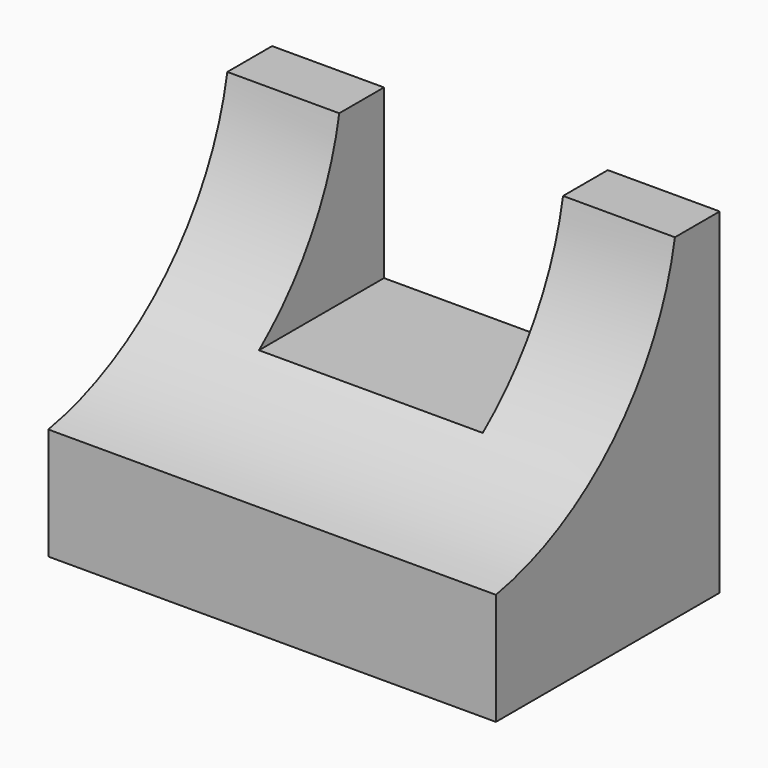
from build123d import *

# Parameters (mm, degrees)
F0_W     = 31.75
F0_H     = 38.1
F1_DEPTH = 50.8
F2_W     = 25.4
F2_H     = 19.05
F3_DEPTH = 38.1
F5_DEPTH = 50.8


with BuildPart() as f1:
    # F0 (on Right) → F1 (new body)
    with BuildSketch(Plane.YZ):
        with Locations((-12.162112, -0.14116)):
            Rectangle(F0_W, F0_H)
    extrude(amount=F1_DEPTH)

    # F2 (on face) → F3 (cut)
    with BuildSketch(Plane.XZ.offset(28.037112)):
        with Locations((25.4, 9.38384)):
            Rectangle(F2_W, F2_H)
    extrude(amount=-F3_DEPTH, mode=Mode.SUBTRACT)

    # F4 (on face) → F5 (cut)
    with BuildSketch(Plane.YZ.offset(50.8)):
        with BuildLine():
            Line((-28.037112, 18.90884), (-28.037112, -6.49116))
            ThreePointArc((-28.037112, -6.49116), (-11.363568, 2.235296), (-2.637112, 18.90884))
            Line((-2.637112, 18.90884), (-28.037112, 18.90884))
        make_face()
    extrude(amount=-F5_DEPTH, mode=Mode.SUBTRACT)


solid = f1.part
